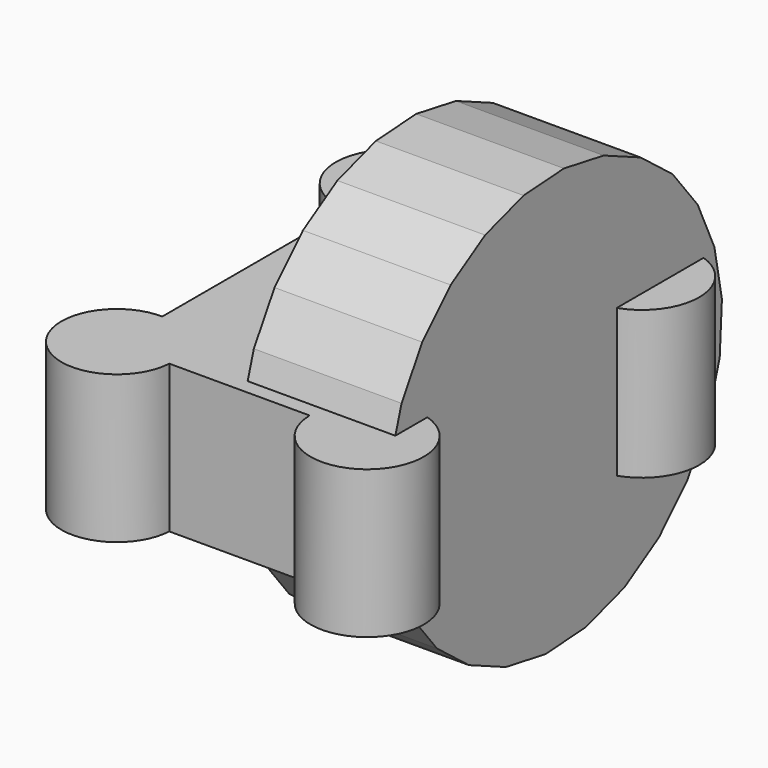
from build123d import *

# Parameters (mm, degrees)
F0_W     = 42.961035
F0_H     = 59.7119
F1_DEPTH = 25.4
F2_R     = 9.839641
F2_R_2   = 9.85345
F2_R_3   = 9.734491
F2_R_4   = 9.512534
F3_DEPTH = 25.4
F5_DEPTH = 25.4


with BuildPart() as f1:
    # F0 (on Top) → F1 (new body)
    with BuildSketch(Plane.XY):
        with Locations((0.788275, -6.995948)):
            Rectangle(F0_W, F0_H)
    extrude(amount=F1_DEPTH)

    # F2 (on Top) → F3 (join)
    with BuildSketch(Plane.XY):
        with Locations((22.268793, 22.66293)):
            Circle(F2_R)
        with Locations((-20.692242, 22.860002)):
            Circle(F2_R_2)
        with Locations((22.465866, -36.654826)):
            Circle(F2_R_3)
        with Locations((-20.889312, -36.260691)):
            Circle(F2_R_4)
    extrude(amount=F3_DEPTH)

    # F4 (on Right) → F5 (join)
    with BuildSketch(Plane.YZ):
        Polygon((-1.96623, -20.782315), (6.695889, -20.20803), (14.968867, -17.577453), (22.371909, -13.043462), (28.474777, -6.869556), (32.922794, 0.585458), (35.457458, 8.888324), (35.931464, 17.556509), (34.317264, 26.086249), (30.708669, 33.981826), (25.315398, 40.784379), (18.450887, 46.098569), (10.514079, 49.615552), (1.96623, 51.130936), (-6.695889, 50.556652), (-14.968867, 47.926074), (-22.371909, 43.392083), (-28.474777, 37.218178), (-32.922794, 29.763163), (-35.457458, 21.460297), (-35.931464, 12.792113), (-34.317264, 4.262373), (-30.708669, -3.633205), (-25.315398, -10.435758), (-18.450887, -15.749947), (-10.514079, -19.266931), align=None)
    extrude(amount=F5_DEPTH)


solid = f1.part
